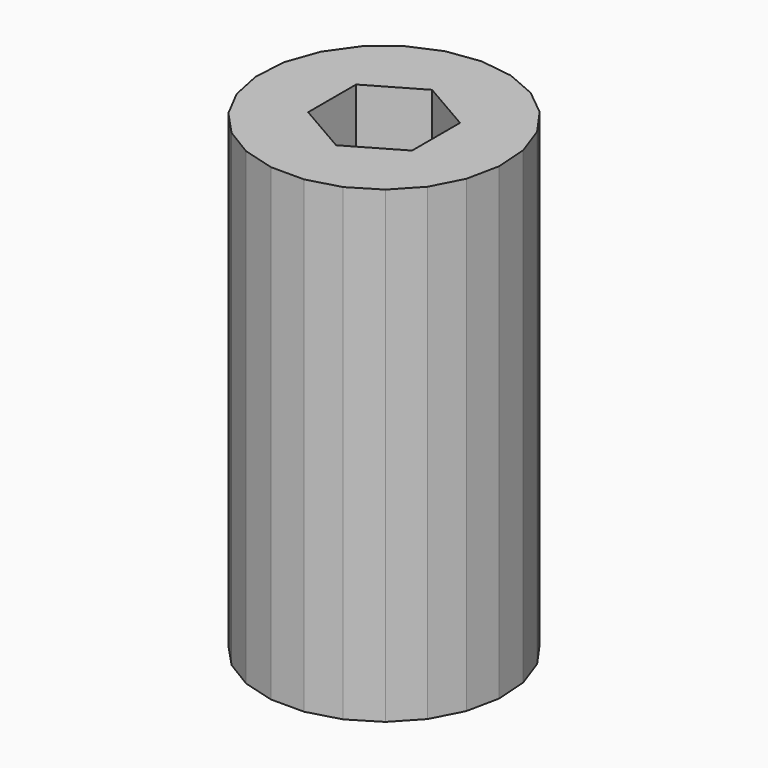
from build123d import *

# Parameters (mm, degrees)
PAD_DEPTH = 25


with BuildPart() as part:
    # Sketch → Pad (new body)
    with BuildSketch(Plane.XY):
        Polygon((4.750434, 4.436595), (3.377296, 5.553726), (1.753679, 6.258962), (0, 6.5), (-1.753679, 6.258962), (-3.377296, 5.553726), (-4.750434, 4.436595), (-5.771254, 2.990423), (-6.364047, 1.322464), (-6.484847, -0.443576), (-6.124696, -2.176717), (-5.310304, -3.748422), (-4.102072, -5.042123), (-2.589607, -5.961873), (-0.885083, -6.439459), (0.885083, -6.439459), (2.589607, -5.961873), (4.102072, -5.042123), (5.310304, -3.748422), (6.124696, -2.176717), (6.484847, -0.443576), (6.364047, 1.322464), (5.771254, 2.990423), align=None)
        Polygon((2.771281, -1.6), (2.771281, 1.6), (0, 3.2), (-2.771281, 1.6), (-2.771281, -1.6), (0, -3.2), align=None, mode=Mode.SUBTRACT)
    extrude(amount=PAD_DEPTH)


solid = part.part
